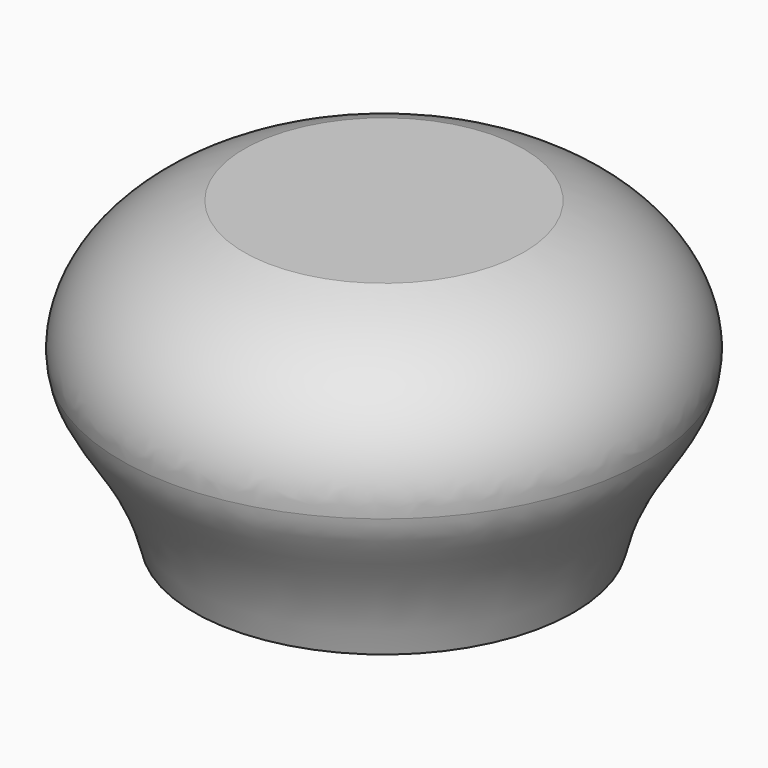
from build123d import *

# Parameters (mm, degrees)
F2_R     = 6.1
F3_DEPTH = 12


with BuildPart() as f1:
    # F0 (on Front) → F1 (revolve)
    with BuildSketch(Plane.XZ):
        with BuildLine():
            Line((0, 9), (0, 0))
            Line((0, 0), (10.85, 0))
            add(Edge.make_bspline(
                [(10.85, 0), (12.0175657794, 4.9609700218), (14.5942696814, 6.4847152517), (15.025, 9)],
                knots=[0, 0, 0, 0, 0.4894192747, 0.4894192747, 0.4894192747, 0.4894192747], degree=3))
            Line((15.025, 9), (0, 9))
        make_face()
        with BuildLine():
            Line((0, 17.2), (0, 9))
            Line((0, 9), (15.025, 9))
            add(Edge.make_bspline(
                [(15.025, 9), (15.4743541834, 11.6240403223), (13.5881481692, 15.3272179887), (8, 17.2)],
                knots=[0.4894192747, 0.4894192747, 0.4894192747, 0.4894192747, 1, 1, 1, 1], degree=3))
            Line((8, 17.2), (0, 17.2))
        make_face()
    revolve(axis=Axis((0, 0, 8.6), (0, 0, 1)))

    # F2 (on face) → F3 (cut)
    with BuildSketch(Plane(origin=(0, 0, 0), x_dir=(1, 0, 0), z_dir=(0, 0, -1))):
        Circle(F2_R)
    extrude(amount=-F3_DEPTH, mode=Mode.SUBTRACT)


solid = f1.part
